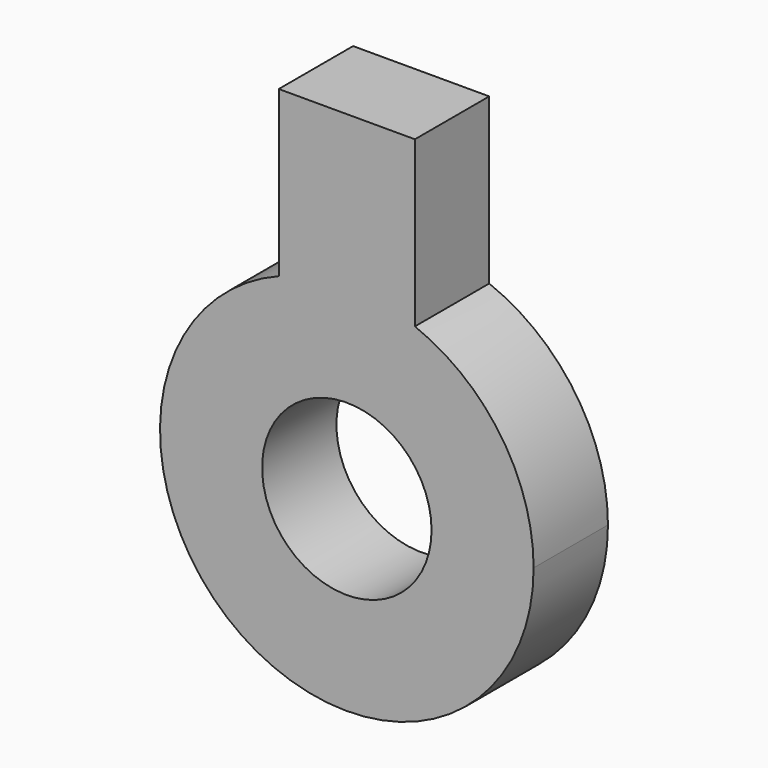
from build123d import *

# Parameters (mm, degrees)
F0_R     = 23.1578344668
F1_DEPTH = 25.4


with BuildPart() as f1:
    # F0 (on Front) → F1 (new body)
    with BuildSketch(Plane.XZ):
        with BuildLine():
            ThreePointArc((-18.6059433036, 47.5486456469), (-28.7840919078, -42.1726319087), (51.059326563, 0))
            ThreePointArc((51.059326563, 0), (42.1726319087, 28.7840919078), (18.6059433036, 47.5486456469))
            Line((18.6059433036, 47.5486456469), (18.6059433036, 40.709229527))
            Line((18.6059433036, 40.709229527), (-18.6059433036, 40.709229527))
            Line((-18.6059433036, 40.709229527), (-18.6059433036, 47.5486456469))
        make_face()
        Circle(F0_R, mode=Mode.SUBTRACT)
        with BuildLine():
            Line((18.6059433036, 40.709229527), (18.6059433036, 47.5486456469))
            ThreePointArc((18.6059433036, 47.5486456469), (0, 51.059326563), (-18.6059433036, 47.5486456469))
            Line((-18.6059433036, 47.5486456469), (-18.6059433036, 40.709229527))
            Line((-18.6059433036, 40.709229527), (18.6059433036, 40.709229527))
        make_face()
        with BuildLine():
            ThreePointArc((-18.6059433036, 47.5486456469), (0, 51.059326563), (18.6059433036, 47.5486456469))
            Line((18.6059433036, 47.5486456469), (18.6059433036, 92.5802945773))
            Line((18.6059433036, 92.5802945773), (-18.6059433036, 92.5802945773))
            Line((-18.6059433036, 92.5802945773), (-18.6059433036, 47.5486456469))
        make_face()
    extrude(amount=F1_DEPTH)


solid = f1.part
